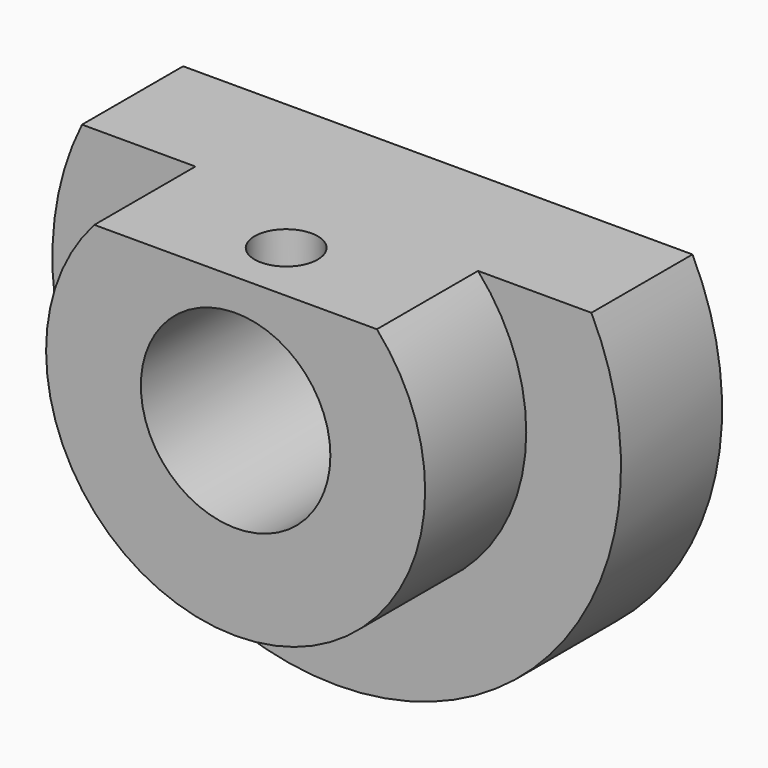
from build123d import *

# Parameters (mm, degrees)
F0_R     = 7.5
F1_DEPTH = 10
F2_DEPTH = 20
F3_R     = 2.5
F4_DEPTH = 3.9289322881


with BuildPart() as f1:
    # F0 (on Front) → F1 (new body)
    with BuildSketch(Plane.XZ):
        with BuildLine():
            Line((11.1803398875, 10), (-11.1803398875, 10))
            ThreePointArc((-11.1803398875, 10), (0, -15), (11.1803398875, 10))
        make_face()
        Circle(F0_R, mode=Mode.SUBTRACT)
        with BuildLine():
            ThreePointArc((11.1803398875, 10), (0, -15), (-11.1803398875, 10))
            Line((-11.1803398875, 10), (-20.1556443707, 10))
            ThreePointArc((-20.1556443707, 10), (0, -22.5), (20.1556443707, 10))
            Line((20.1556443707, 10), (11.1803398875, 10))
        make_face()
    extrude(amount=F1_DEPTH)

    # F0 (on Front) → F2 (join)
    with BuildSketch(Plane.XZ):
        with BuildLine():
            Line((11.1803398875, 10), (-11.1803398875, 10))
            ThreePointArc((-11.1803398875, 10), (0, -15), (11.1803398875, 10))
        make_face()
        Circle(F0_R, mode=Mode.SUBTRACT)
    extrude(amount=F2_DEPTH)

    # F3 (on face) → F4 (cut, up to face)
    with BuildSketch(Plane.XY.offset(10)):
        with Locations((0, -15)):
            Circle(F3_R)
    extrude(amount=-F4_DEPTH, mode=Mode.SUBTRACT)


solid = f1.part
